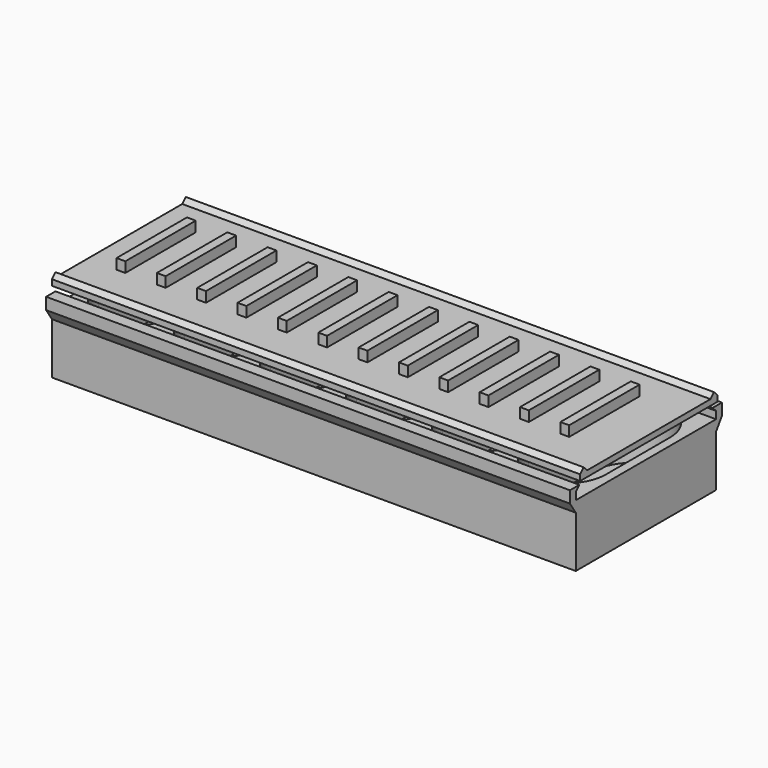
from build123d import *

# Parameters (mm, degrees)
SKETCH_W     = 71.4
SKETCH_H     = 23.9
PAD_DEPTH    = 7.5
SKETCH001_W  = 71.4
SKETCH001_H  = 23.9
PAD001_DEPTH = 1
PAD002_DEPTH = 71.4
PAD003_DEPTH = 72
SKETCH004_W  = 1.2
SKETCH004_H  = 12
PAD004_DEPTH = 1.4


with BuildPart() as obj1:
    # Sketch → Pad (new body)
    with BuildSketch(Plane.XY):
        with Locations((35.7, 11.95)):
            Rectangle(SKETCH_W, SKETCH_H)
        with BuildLine():
            ThreePointArc((11.7, 17.45), (6.45, 22.7), (1.2, 17.45))
            Line((1.2, 17.45), (1.2, 6.45))
            ThreePointArc((1.2, 6.45), (6.45, 1.2), (11.7, 6.45))
            Line((11.7, 6.45), (11.7, 17.45))
        make_face(mode=Mode.SUBTRACT)
        with BuildLine():
            ThreePointArc((23.399963, 17.479296), (18.149963, 22.729296), (12.899963, 17.479296))
            Line((12.899963, 17.479296), (12.899963, 6.479296))
            ThreePointArc((12.899963, 6.479296), (18.149963, 1.229296), (23.399963, 6.479296))
            Line((23.399963, 6.479296), (23.399963, 17.479296))
        make_face(mode=Mode.SUBTRACT)
        with BuildLine():
            ThreePointArc((35.099927, 17.508591), (29.849927, 22.758591), (24.599927, 17.508591))
            Line((24.599927, 17.508591), (24.599927, 6.508591))
            ThreePointArc((24.599927, 6.508591), (29.849927, 1.258591), (35.099927, 6.508591))
            Line((35.099927, 6.508591), (35.099927, 17.508591))
        make_face(mode=Mode.SUBTRACT)
        with BuildLine():
            ThreePointArc((46.79989, 17.537887), (41.54989, 22.787887), (36.29989, 17.537887))
            Line((36.29989, 17.537887), (36.29989, 6.537887))
            ThreePointArc((36.29989, 6.537887), (41.54989, 1.287887), (46.79989, 6.537887))
            Line((46.79989, 6.537887), (46.79989, 17.537887))
        make_face(mode=Mode.SUBTRACT)
        with BuildLine():
            ThreePointArc((58.499853, 17.567183), (53.249853, 22.817183), (47.999853, 17.567183))
            Line((47.999853, 17.567183), (47.999853, 6.567183))
            ThreePointArc((47.999853, 6.567183), (53.249853, 1.317183), (58.499853, 6.567183))
            Line((58.499853, 6.567183), (58.499853, 17.567183))
        make_face(mode=Mode.SUBTRACT)
        with BuildLine():
            ThreePointArc((70.199817, 17.596479), (64.949817, 22.846479), (59.699817, 17.596479))
            Line((59.699817, 17.596479), (59.699817, 6.596479))
            ThreePointArc((59.699817, 6.596479), (64.949817, 1.346479), (70.199817, 6.596479))
            Line((70.199817, 6.596479), (70.199817, 17.596479))
        make_face(mode=Mode.SUBTRACT)
    extrude(amount=PAD_DEPTH)

    # Sketch001 → Pad001 (join)
    with BuildSketch(Plane.XY):
        with Locations((35.7, 11.95)):
            Rectangle(SKETCH001_W, SKETCH001_H)
    extrude(amount=-PAD001_DEPTH)

    # Sketch002 → Pad002 (join)
    with BuildSketch(Plane.YZ):
        Polygon((0, 6), (-1, 7.5), (-1, 9.1), (0.6, 9.1), (0, 8.5), align=None)
        Polygon((23.9, 6), (24.9, 7.5), (24.9, 9.1), (23.3, 9.1), (23.9, 8.5), align=None)
    extrude(amount=PAD002_DEPTH)


with BuildPart() as obj2:
    # Sketch003 → Pad003 (new body)
    with BuildSketch(Plane.YZ):
        Polygon((0, 10), (23.4, 10), (23.4, 10.8), (22.8, 11.4), (22.2, 10.8), (1.2, 10.8), (0.6, 11.4), (0, 10.8), align=None)
    extrude(amount=PAD003_DEPTH)

    # Sketch004 → Pad004 (join)
    with BuildSketch(Plane.XY.offset(10.8)):
        with Locations((4.6, 12)):
            Rectangle(SKETCH004_W, SKETCH004_H)
        with Locations((10.1, 12)):
            Rectangle(SKETCH004_W, SKETCH004_H)
        with Locations((15.6, 12)):
            Rectangle(SKETCH004_W, SKETCH004_H)
        with Locations((21.1, 12)):
            Rectangle(SKETCH004_W, SKETCH004_H)
        with Locations((26.6, 12)):
            Rectangle(SKETCH004_W, SKETCH004_H)
        with Locations((32.1, 12)):
            Rectangle(SKETCH004_W, SKETCH004_H)
        with Locations((37.6, 12)):
            Rectangle(SKETCH004_W, SKETCH004_H)
        with Locations((43.1, 12)):
            Rectangle(SKETCH004_W, SKETCH004_H)
        with Locations((48.6, 12)):
            Rectangle(SKETCH004_W, SKETCH004_H)
        with Locations((54.1, 12)):
            Rectangle(SKETCH004_W, SKETCH004_H)
        with Locations((59.6, 12)):
            Rectangle(SKETCH004_W, SKETCH004_H)
        with Locations((65.1, 12)):
            Rectangle(SKETCH004_W, SKETCH004_H)
    extrude(amount=PAD004_DEPTH)


solid = Compound([obj1.part, obj2.part])
